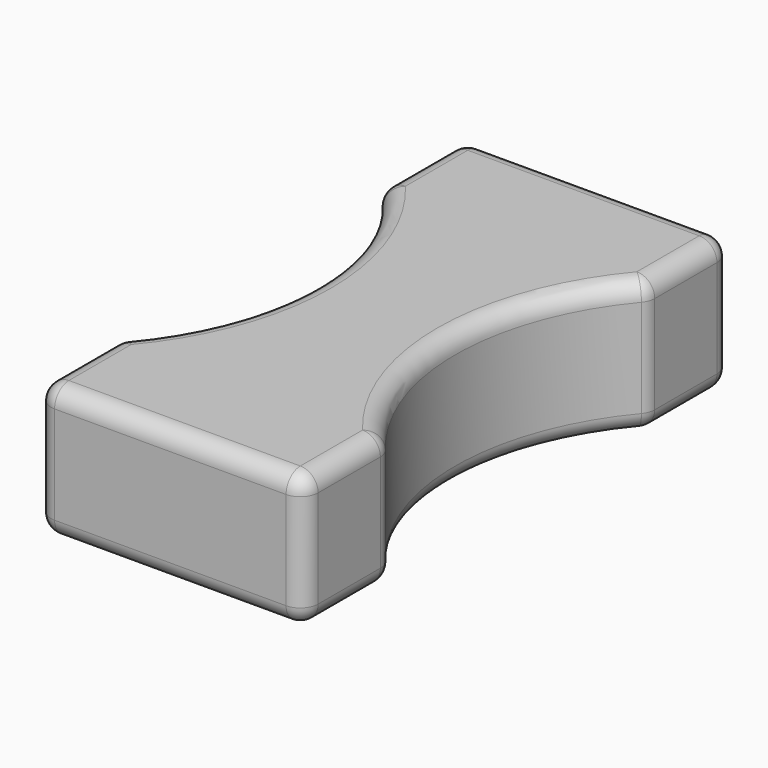
from build123d import *

# Parameters (mm, degrees)
PAD_DEPTH    = 7.5
SKETCH001_R  = 14
POCKET_DEPTH = 7.501
FILLET_R     = 1


with BuildPart() as part:
    # Sketch → Pad (new body)
    with BuildSketch(Plane.XY):
        Polygon((0, 15), (-7.5, 15), (-7.5, 0), (-7.5, -15), (0, -15), (7.5, -15), (7.5, 0), (7.5, 15), align=None)
    extrude(amount=PAD_DEPTH)

    # Sketch001 → Pocket (cut, through all)
    with BuildSketch(Plane(origin=(0, 0, 0), x_dir=(1, 0, 0), z_dir=(0, 0, -1))):
        with Locations((18, 0)):
            Circle(SKETCH001_R)
        with Locations((-18, 0)):
            Circle(SKETCH001_R)
    extrude(amount=-POCKET_DEPTH, mode=Mode.SUBTRACT)

    # Fillet
    fillet_edges = [part.edges().sort_by_distance(p)[0] for p in [
        (-7.5, -12.130065, 7.5),
        (-3.75, -15, 7.5),
        (3.75, -15, 7.5),
        (7.5, -12.130065, 7.5),
        (-7.5, -12.130065, 0),
        (-7.5, -15, 3.75),
        (-7.5, -9.26013, 3.75),
        (-4.904199, -4.949747, 7.5),
        (-4.904199, 4.949747, 7.5),
        (-4.904199, 4.949747, 0),
        (-4.904199, -4.949747, 0),
        (-7.5, 9.26013, 3.75),
        (-7.5, 12.130065, 0),
        (-7.5, 12.130065, 7.5),
        (-7.5, 15, 3.75),
        (-3.75, 15, 7.5),
        (3.75, 15, 7.5),
        (7.5, 12.130065, 7.5),
        (4, 0, 7.5),
        (7.5, -15, 3.75),
        (7.5, -12.130065, 0),
        (4, 0, 0),
        (7.5, 12.130065, 0),
        (7.5, 9.26013, 3.75),
        (7.5, -9.26013, 3.75),
        (7.5, 15, 3.75),
        (-3.75, 15, 0),
        (3.75, 15, 0),
        (-3.75, -15, 0),
        (3.75, -15, 0),
    ]]
    fillet(fillet_edges, radius=FILLET_R)


solid = part.part
